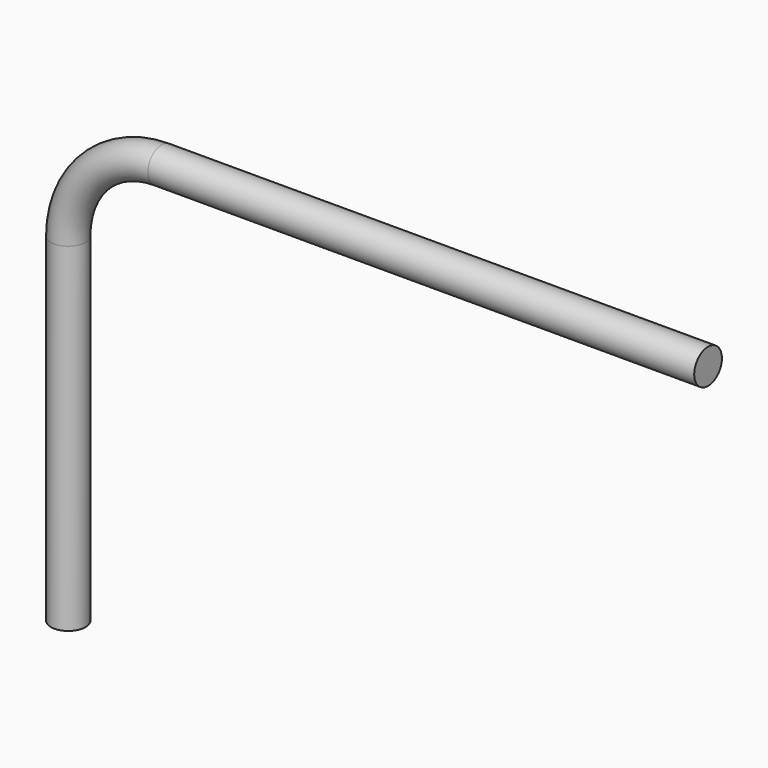
from build123d import *

# Parameters (mm, degrees)
F2_R = 1.5875


with BuildPart() as f3:
    # F3: sweep along a path in F0
    with BuildLine(Plane.XZ) as f3_path:
        Line((-22.8813700378, -11.6498660611), (-22.8813700378, 19.4084215909))
        ThreePointArc((-22.8813700378, 19.4084215909), (-20.3725309768, 25.4652948778), (-14.3156576899, 27.9741339389))
        Line((-14.3156576899, 27.9741339389), (35.7926299622, 27.9741339389))
    # F2 (on plane+point) → F3 (sweep)
    with BuildSketch(Plane.YZ.offset(35.7926299622)):
        with Locations((0, 27.9741339389)):
            Circle(F2_R)
    sweep(path=f3_path.line)


solid = f3.part
